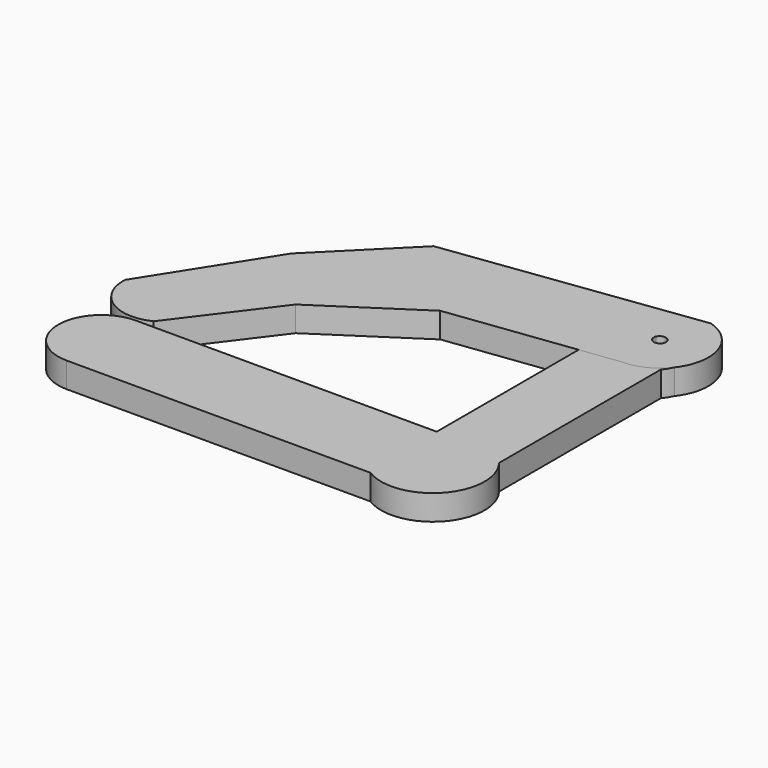
from build123d import *

# Parameters (mm, degrees)
SKETCH_R     = 1.515
PAD_DEPTH    = 6
SKETCH001_R  = 1.515
PAD001_DEPTH = 6


with BuildPart() as obj1:
    # Sketch → Pad (new body)
    with BuildSketch(Plane.XY):
        with BuildLine():
            Line((-81.431848, -54.59229), (-9.221848, -54.59229))
            Line((-9.221848, -54.59229), (-9.221848, -6.55229))
            ThreePointArc((7.647313, -9.130537), (1.510507, 7.192648), (-9.221848, -6.55229))
            Line((7.647313, -9.130537), (7.647313, -57.170537))
            ThreePointArc((-8.507445, -75.160048), (7.102426, -72.929545), (7.647313, -57.170537))
            Line((-80.717445, -75.160048), (-8.507445, -75.160048))
            ThreePointArc((-81.431848, -54.59229), (-90.916781, -65.218027), (-80.717445, -75.160048))
        make_face()
        Circle(SKETCH_R, mode=Mode.SUBTRACT)
    extrude(amount=PAD_DEPTH)


with BuildPart() as obj2:
    # Sketch001 → Pad001 (new body)
    with BuildSketch(Plane.XY):
        with BuildLine():
            Line((-92.456543, -43.057655), (-75.009216, -15.536896))
            Line((-75.009216, -15.536896), (-56.204937, 3.249128))
            Line((-56.204937, 3.249128), (3.311282, 11.141696))
            ThreePointArc((0, -11.274597), (11.388689, -1.504193), (3.311282, 11.141696))
            Line((-39.056995, -16.252441), (0, -11.274597))
            Line((-61.584679, -31.046738), (-39.056995, -16.252441))
            Line((-77.930831, -52.757955), (-61.584679, -31.046738))
            ThreePointArc((-92.456543, -43.057655), (-87.968497, -52.062944), (-77.930831, -52.757955))
        make_face()
        with Locations((0.068762, 0.16796)):
            Circle(SKETCH001_R, mode=Mode.SUBTRACT)
    extrude(amount=PAD001_DEPTH)


solid = Compound([obj1.part, obj2.part])
